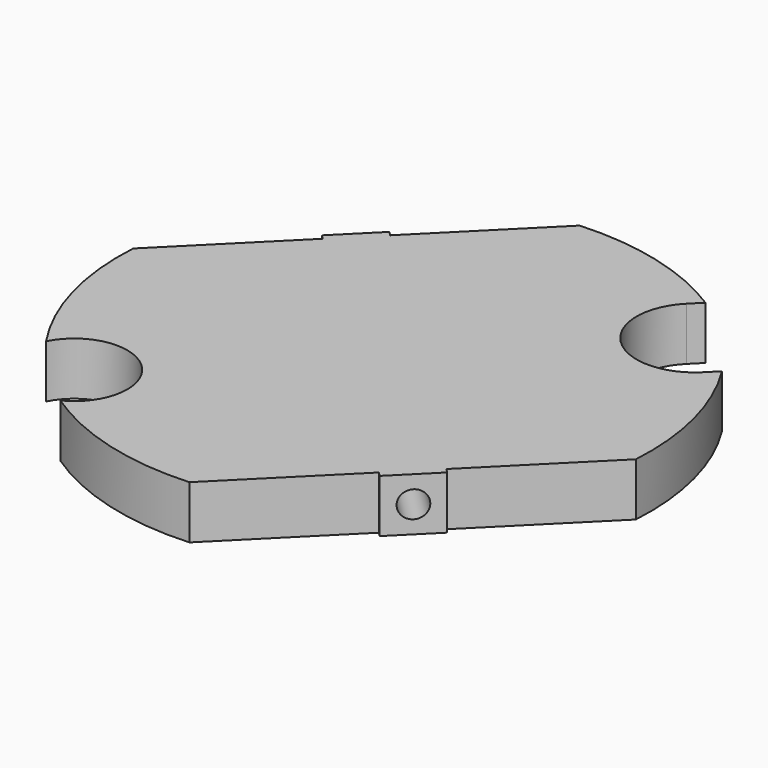
from build123d import *

# Parameters (mm, degrees)
F1_DEPTH = 0.5
F2_R     = 0.25
F3_DEPTH = 10.9320678119


with BuildPart() as f1:
    # F0 (on Top) → F1 (new body, symmetric)
    with BuildSketch(Plane.XY):
        with BuildLine():
            Line((-3.00520382, 2.2980970389), (-4.9901862962, 0.3131145627))
            ThreePointArc((-4.9901862962, 0.3131145627), (-4.8244092491, -1.3134212566), (-4.1427869129, -2.7995207794))
            ThreePointArc((-4.1427869129, -2.7995207794), (-2.5428932188, -2.5428932188), (-2.7995207794, -4.1427869129))
            ThreePointArc((-2.7995207794, -4.1427869129), (-1.3134212566, -4.8244092491), (0.3131145627, -4.9901862962))
            Line((0.3131145627, -4.9901862962), (2.2980970389, -3.00520382))
            Line((2.2980970389, -3.00520382), (2.3758787848, -3.082985566))
            Line((2.3758787848, -3.082985566), (3.082985566, -2.3758787848))
            Line((3.082985566, -2.3758787848), (3.00520382, -2.2980970389))
            Line((3.00520382, -2.2980970389), (4.9901862962, -0.3131145627))
            ThreePointArc((4.9901862962, -0.3131145627), (4.8439927049, 1.2392476245), (4.2267303315, 2.6710954129))
            Line((4.2267303315, 2.6710954129), (4.0305086528, 2.4748737342))
            ThreePointArc((4.0305086528, 2.4748737342), (2.4748737342, 2.4748737342), (2.4748737342, 4.0305086528))
            Line((2.4748737342, 4.0305086528), (2.6710954129, 4.2267303315))
            ThreePointArc((2.6710954129, 4.2267303315), (1.2392476245, 4.8439927049), (-0.3131145627, 4.9901862962))
            Line((-0.3131145627, 4.9901862962), (-2.2980970389, 3.00520382))
            Line((-2.2980970389, 3.00520382), (-2.3758787848, 3.082985566))
            Line((-2.3758787848, 3.082985566), (-3.082985566, 2.3758787848))
            Line((-3.082985566, 2.3758787848), (-3.00520382, 2.2980970389))
        make_face()
    extrude(amount=F1_DEPTH, both=True)

    # F2 (on face) → F3 (cut, through all)
    with BuildSketch(Plane(origin=(2.7294321754, -2.7294321754, 0), x_dir=(0.7071067812, 0.7071067812, 0), z_dir=(0.7071067812, -0.7071067812, 0))):
        Circle(F2_R)
    extrude(amount=-F3_DEPTH, mode=Mode.SUBTRACT)


solid = f1.part
